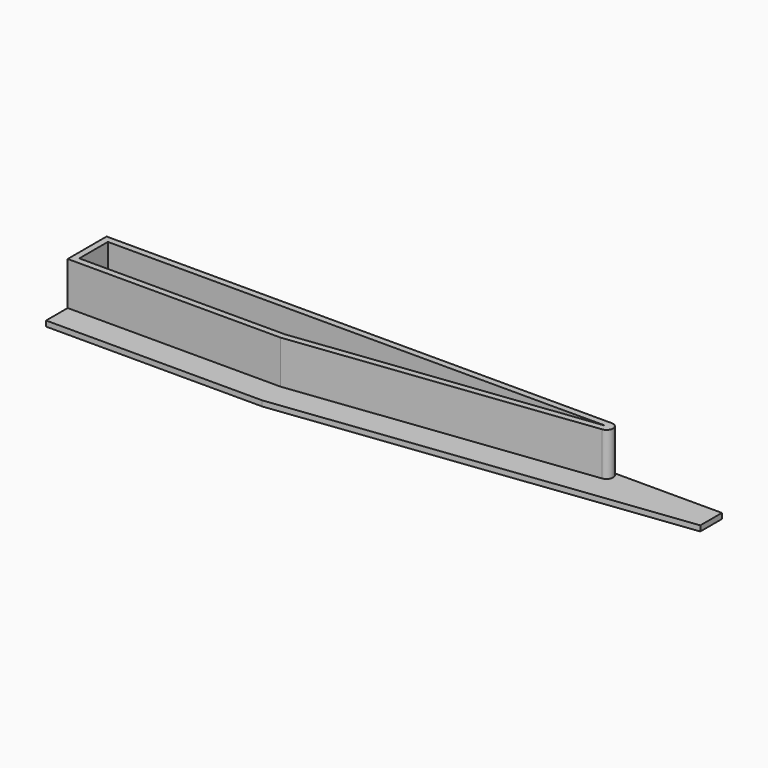
from build123d import *

# Parameters (mm, degrees)
PAD_DEPTH                      = 1
PAD001_DEPTH                   = 8
CHAMFER_SIZE                   = 1
PART_MIRRORING_PLACEMENT_ANGLE = 180


with BuildPart() as body_ramp_support:
    # Sketch → Pad (new body)
    with BuildSketch(Plane.XY):
        Polygon((-40, 0), (-40, 14), (0, 14), (73.928571, 5), (73.928571, 0), align=None)
    extrude(amount=PAD_DEPTH)

    # Sketch001 (on Face7 of Pad) → Pad001 (join)
    with BuildSketch(Plane.XY.offset(1)):
        with BuildLine():
            Line((-40, 9), (-0.608696, 9))
            Line((-0.608696, 9), (53.677832, 2.391205))
            ThreePointArc((53.532815, 0), (54.730615, 1.127359), (53.677832, 2.391205))
            Line((-40, 0), (53.532815, 0))
            Line((-40, 0), (-40, 9))
        make_face()
        Polygon((53.532815, 1.2), (-0.753712, 7.808795), (-38.8, 7.808795), (-38.8, 1.2), align=None, mode=Mode.SUBTRACT)
    extrude(amount=PAD001_DEPTH)

    # Chamfer
    chamfer_edges = [body_ramp_support.edges().sort_by_distance(p)[0] for p in [
        (-19.776856, 7.808795, 1),
        (26.389552, 4.504397, 1),
        (7.366408, 1.2, 1),
        (-38.8, 4.504397, 1),
    ]]
    chamfer(chamfer_edges, length=CHAMFER_SIZE)


with BuildPart() as mirror_ramp_support:
    # Part__Mirroring: instance of Body-ramp-support
    add(body_ramp_support.part.mirror(Plane(origin=(0, 0, 0), x_dir=(0, -1, 0), z_dir=(1, 0, 0))))


with BuildPart() as mirror_ramp_support_1:
    # Part__Mirroring placement: moved
    add(mirror_ramp_support.part.moved(Location((0, -4, 0))).rotate(Axis((0, -4, 0), (0, 0, 1)), PART_MIRRORING_PLACEMENT_ANGLE))


solid = mirror_ramp_support_1.part
